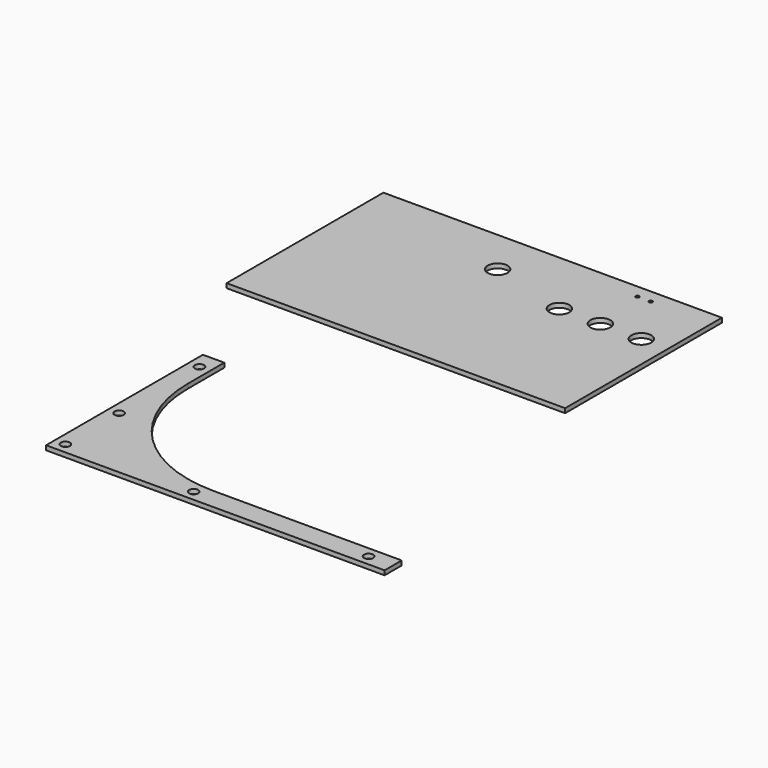
from build123d import *

# Parameters (mm, degrees)
F0_R     = 6.57983
F1_DEPTH = 6.35
F0_W     = 482.6
F0_H     = 279.4
F0_R_2   = 14.1986
F0_R_3   = 2.54
F2_DEPTH = 6.35


with BuildPart() as f1:
    # F0 (on Top) → F1 (new body)
    with BuildSketch(Plane.XY):
        with BuildLine():
            Line((-235.77665, -229.996868), (-235.77665, -509.396868))
            Line((-235.77665, -509.396868), (246.82335, -509.396868))
            Line((246.82335, -509.396868), (246.82335, -478.916868))
            Line((246.82335, -478.916868), (-21.14665, -478.916868))
            ThreePointArc((-21.14665, -478.916868), (-151.360364, -424.980581), (-205.29665, -294.766868))
            Line((-205.29665, -294.766868), (-205.29665, -229.996868))
            Line((-205.29665, -229.996868), (-235.77665, -229.996868))
        make_face()
        with Locations((-220.53665, -494.156868)):
            Circle(F0_R, mode=Mode.SUBTRACT)
        with Locations((-220.53665, -398.200452)):
            Circle(F0_R, mode=Mode.SUBTRACT)
        with Locations((-220.53665, -255.11536)):
            Circle(F0_R, mode=Mode.SUBTRACT)
        with Locations((-37.517611, -494.156868)):
            Circle(F0_R, mode=Mode.SUBTRACT)
        with Locations((211.886004, -494.156868)):
            Circle(F0_R, mode=Mode.SUBTRACT)
    extrude(amount=F1_DEPTH)


with BuildPart() as f2:
    # F0 (on Top) → F2 (new body)
    with BuildSketch(Plane.XY):
        with Locations((-81.707698, 61.032355)):
            Rectangle(F0_W, F0_H)
        with Locations((-108.377698, 135.962355)):
            Circle(F0_R_2, mode=Mode.SUBTRACT)
        with Locations((4.652302, 104.720355)):
            Circle(F0_R_2, mode=Mode.SUBTRACT)
        with Locations((63.072302, 104.720355)):
            Circle(F0_R_2, mode=Mode.SUBTRACT)
        with Locations((54.530641, 181.564134)):
            Circle(F0_R_3, mode=Mode.SUBTRACT)
        with Locations((73.580641, 181.564134)):
            Circle(F0_R_3, mode=Mode.SUBTRACT)
        with Locations((121.492302, 104.720355)):
            Circle(F0_R_2, mode=Mode.SUBTRACT)
    extrude(amount=F2_DEPTH)


solid = Compound([f1.part, f2.part])
